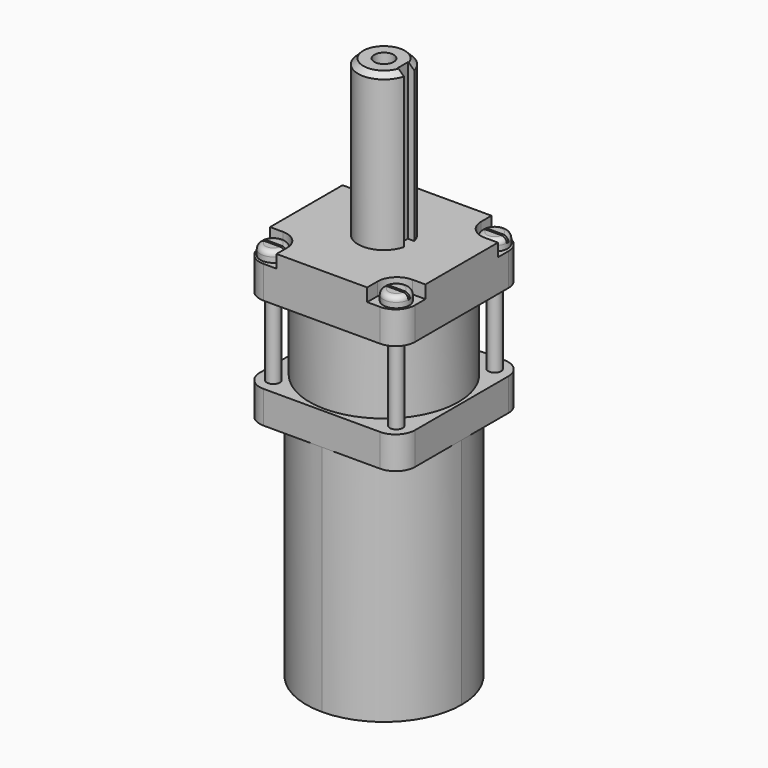
from build123d import *

# Parameters (mm, degrees)
F0_W      = 38.1
F0_H      = 38.1
F1_DEPTH  = 7.9375
F2_R      = 18.25625
F3_DEPTH  = 19.05
F5_DEPTH  = 57.15
F6_W      = 38.1
F6_H      = 38.1
F7_DEPTH  = 11.1125
F8_W      = 7.9375
F8_H      = 7.9375
F9_DEPTH  = 3.175
F10_R     = 4.7625
F11_R     = 4.7625
F12_R     = 3.175
F13_DEPTH = 2.54
F14_R     = 1.27
F15_W     = 6.6120235562
F15_H     = 0.5172046214
F16_DEPTH = 1.27
F17_R     = 1.5875
F18_DEPTH = 28.2575
F19_R     = 3.175
F20_DEPTH = 2.54
F19_W     = 0.635
F19_H     = 3.175
F22_DEPTH = 1.27
F23_R     = 0.508
F21_R     = 2.38125
F24_DEPTH = 38.1
F25_SIZE  = 1.27


with BuildPart() as f1:
    # F0 (on Top) → F1 (new body)
    with BuildSketch(Plane.XY):
        Rectangle(F0_W, F0_H)
    extrude(amount=F1_DEPTH)

    # F2 (on face) → F3 (join)
    with BuildSketch(Plane.XY.offset(7.9375)):
        Circle(F2_R)
    extrude(amount=F3_DEPTH)

    # F4 (on face) → F5 (join)
    with BuildSketch(Plane(origin=(0, 0, 0), x_dir=(1, 0, 0), z_dir=(0, 0, -1))):
        with BuildLine():
            ThreePointArc((-3.68e-08, -19.05), (13.4703841686, -13.4703841946), (19.05, 0))
            ThreePointArc((19.05, 0), (13.4703841816, 13.4703841816), (0, 19.05))
            ThreePointArc((0, 19.05), (-13.4703841946, 13.4703841686), (-19.05, -3.68e-08))
            ThreePointArc((-19.05, -3.68e-08), (-13.4703841816, -13.4703841816), (-3.68e-08, -19.05))
        make_face()
    extrude(amount=F5_DEPTH)

    # F6 (on face) → F7 (join)
    with BuildSketch(Plane.XY.offset(26.9875)):
        Rectangle(F6_W, F6_H)
    extrude(amount=F7_DEPTH)

    # F8 (on face) → F9 (cut)
    with BuildSketch(Plane.XY.offset(38.1)):
        with Locations((-15.08125, 15.08125)):
            Rectangle(F8_W, F8_H)
        with Locations((15.08125, 15.08125)):
            Rectangle(F8_W, F8_H)
        with Locations((15.08125, -15.08125)):
            Rectangle(F8_W, F8_H)
        with Locations((-15.08125, -15.08125)):
            Rectangle(F8_W, F8_H)
    extrude(amount=-F9_DEPTH, mode=Mode.SUBTRACT)

    # F10
    f10_edges = [f1.edges().sort_by_distance(p)[0] for p in [
        (-19.05, -19.05, 30.95625),
        (19.05, -19.05, 30.95625),
        (19.05, -19.05, 3.96875),
        (-19.05, -19.05, 3.96875),
        (19.05, 19.05, 3.96875),
        (19.05, 19.05, 30.95625),
        (-19.05, 19.05, 3.96875),
        (-19.05, 19.05, 30.95625),
    ]]
    fillet(f10_edges, radius=F10_R)

    # F11
    f11_edges = [f1.edges().sort_by_distance(p)[0] for p in [
        (11.1125, -11.1125, 36.5125),
        (-11.1125, -11.1125, 36.5125),
        (11.1125, 11.1125, 36.5125),
        (-11.1125, 11.1125, 36.5125),
    ]]
    fillet(f11_edges, radius=F11_R)

    # F12 (on face) → F13 (join)
    with BuildSketch(Plane.XY.offset(34.925)):
        with Locations((15.08125, 15.08125)):
            Circle(F12_R)
        with Locations((-15.08125, 15.08125)):
            Circle(F12_R)
        with Locations((-15.08125, -15.08125)):
            Circle(F12_R)
        with Locations((15.08125, -15.08125)):
            Circle(F12_R)
    extrude(amount=F13_DEPTH)

    # F14
    f14_edges = [f1.edges().sort_by_distance(p)[0] for p in [
        (-18.25625, 15.08125, 37.465),
        (11.90625, 15.08125, 37.465),
        (11.90625, -15.08125, 37.465),
        (-18.25625, -15.08125, 37.465),
    ]]
    fillet(f14_edges, radius=F14_R)

    # F15 (on face) → F16 (cut)
    with BuildSketch(Plane.XY.offset(37.465)):
        with Locations((15.08125, 15.08125)):
            Rectangle(F15_W, F15_H)
        with Locations((-15.08125, 15.08125)):
            Rectangle(F15_W, F15_H)
        with Locations((15.08125, -15.08125)):
            Rectangle(F15_W, F15_H)
        with Locations((-15.08125, -15.08125)):
            Rectangle(F15_W, F15_H)
    extrude(amount=-F16_DEPTH, mode=Mode.SUBTRACT)

    # F17 (on face) → F18 (join, through all)
    with BuildSketch(Plane.XY.offset(36.195)):
        with Locations((15.08125, 15.08125)):
            Circle(F17_R)
        with Locations((-15.08125, 15.08125)):
            Circle(F17_R)
        with Locations((-15.08125, -15.08125)):
            Circle(F17_R)
        with Locations((15.08125, -15.08125)):
            Circle(F17_R)
    extrude(amount=-F18_DEPTH)

    # F19 (on face) → F20 (join)
    with BuildSketch(Plane(origin=(0, 0, -57.15), x_dir=(1, 0, 0), z_dir=(0, 0, -1))):
        Circle(F19_R)
    extrude(amount=F20_DEPTH)

    # F19 (on face) → F22 (join)
    with BuildSketch(Plane(origin=(0, 0, -57.15), x_dir=(1, 0, 0), z_dir=(0, 0, -1))):
        Circle(F19_R)
        with Locations((15.24, 0)):
            Rectangle(F19_W, F19_H)
        with Locations((-15.24, 0)):
            Rectangle(F19_W, F19_H)
    extrude(amount=F22_DEPTH)

    # F23
    f23_edges = [f1.edges().sort_by_distance(p)[0] for p in [
        (-3.175, 0, -57.15),
        (3.175, 0, -58.42),
        (-3.175, 0, -59.69),
    ]]
    fillet(f23_edges, radius=F23_R)

    # F21 (on face) → F24 (join)
    with BuildSketch(Plane.XY.offset(38.1)):
        with BuildLine():
            Line((4.5608610621, -1.5875), (4.5608610621, 0))
            Line((4.5608610621, 0), (4.5608610621, 1.5875))
            Line((4.5608610621, 1.5875), (6.1483610621, 1.5875))
            ThreePointArc((6.1483610621, 1.5875), (-6.35, 0), (6.1483610621, -1.5875))
            Line((6.1483610621, -1.5875), (4.5608610621, -1.5875))
        make_face()
        Circle(F21_R, mode=Mode.SUBTRACT)
    extrude(amount=F24_DEPTH)

    # F25
    f25_edges = [f1.edges().sort_by_distance(p)[0] for p in [
        (-6.35, 0, 76.2),
    ]]
    chamfer(f25_edges, length=F25_SIZE)


solid = f1.part
